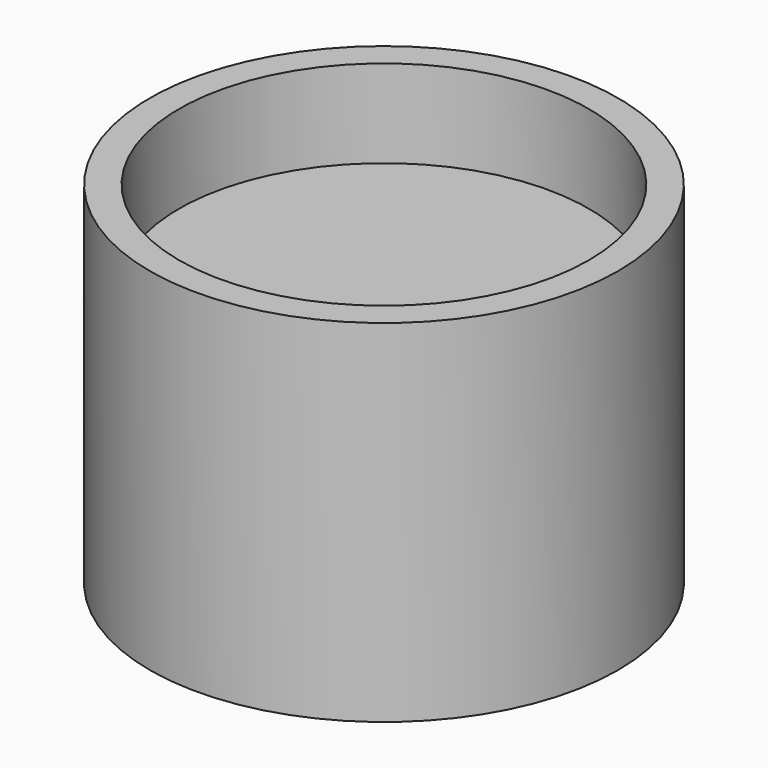
from build123d import *

# Parameters (mm, degrees)
SKETCH_R     = 8
PAD_DEPTH    = 12
SKETCH001_R  = 7
POCKET_DEPTH = 3


with BuildPart() as part:
    # Sketch → Pad (new body)
    with BuildSketch(Plane.XY):
        Circle(SKETCH_R)
    extrude(amount=PAD_DEPTH)

    # Sketch001 (on Face3 of Pad) → Pocket (cut)
    with BuildSketch(Plane.XY.offset(12)):
        Circle(SKETCH001_R)
    extrude(amount=-POCKET_DEPTH, mode=Mode.SUBTRACT)


solid = part.part
